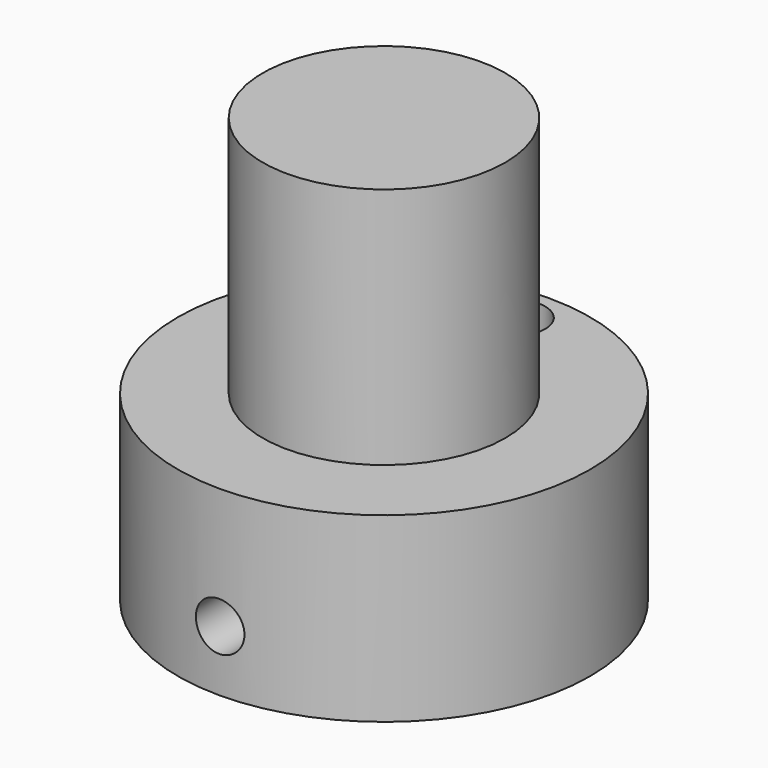
from build123d import *

# Parameters (mm, degrees)
F0_R      = 17
F1_DEPTH  = 15
F2_R      = 10
F3_DEPTH  = 20
F4_R      = 0.8
F5_DEPTH  = 5
F7_R      = 2
F8_DEPTH  = 42.001
F9_R      = 2.5
F10_DEPTH = 5


with BuildPart() as f1:
    # F0 (on Top) → F1 (new body)
    with BuildSketch(Plane.XY):
        Circle(F0_R)
    extrude(amount=F1_DEPTH)

    # F2 (on face) → F3 (join)
    with BuildSketch(Plane.XY.offset(15)):
        Circle(F2_R)
    extrude(amount=F3_DEPTH)

    # F4 (on face) → F5 (cut)
    with BuildSketch(Plane(origin=(0, 0, 0), x_dir=(1, 0, 0), z_dir=(0, 0, -1))):
        Circle(F4_R)
    extrude(amount=-F5_DEPTH, mode=Mode.SUBTRACT)

    # F7 (on offset) → F8 (cut, through all)
    with BuildSketch(Plane.XZ.offset(25)):
        with Locations((0, 5)):
            Circle(F7_R)
    extrude(amount=-F8_DEPTH, mode=Mode.SUBTRACT)

    # F9 (on face) → F10 (cut)
    with BuildSketch(Plane.XY.offset(15)):
        with Locations((0, 13.5)):
            Circle(F9_R)
    extrude(amount=-F10_DEPTH, mode=Mode.SUBTRACT)


solid = f1.part
